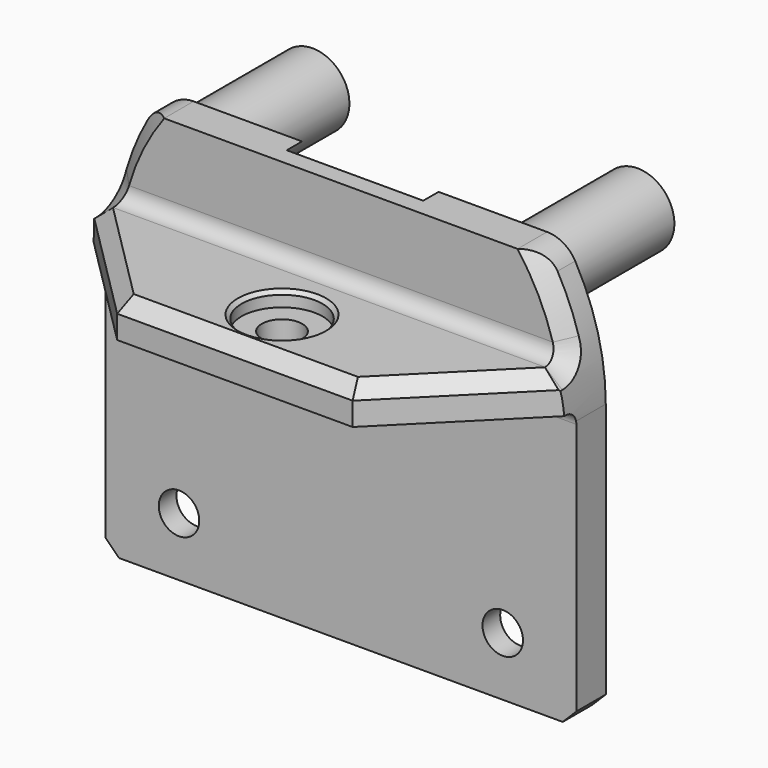
from build123d import *

# Parameters (mm, degrees)
PAD001_DEPTH                  = 32
SKETCH010_R                   = 20.25
SKETCH010_R_2                 = 7.8
POCKET_DEPTH                  = 2.6
SKETCH011_R                   = 2.75
POCKET001_DEPTH               = 23.001
SKETCH014_R                   = 5.5
POCKET004_DEPTH               = 2
SKETCH008_R                   = 5
PAD002_DEPTH                  = 17.8
SKETCH012_R                   = 1.3
POCKET002_DEPTH               = 10
SKETCH013_R                   = 2.75
POCKET003_DEPTH               = 18.001
SKETCH015_R                   = 5.5
POCKET005_DEPTH               = 2
CHAMFER_SIZE                  = 2
CHAMFER001_SIZE               = 1.85
CHAMFER002_SIZE               = 0.5
FILLET_R                      = 4.4
BODY001082169_ROLL_ANGLE      = 90
BODY001082169_PLACEMENT_ANGLE = 180


with BuildPart() as part:
    # Sketch009 → Pad001 (new body, symmetric)
    with BuildSketch(Plane.YZ):
        with BuildLine():
            Line((-36.6, 0), (-36.6, 5))
            Line((-36.6, 5), (18, 5))
            Line((18, 5), (18, 0))
            Line((18, 0), (8.4, 0))
            ThreePointArc((8.4, 0), (6.985786, -0.585786), (6.4, -2))
            Line((6.4, -2), (6.4, -18))
            Line((6.4, -18), (1.4, -18))
            Line((1.4, -18), (1.4, -1.8))
            ThreePointArc((1.4, -1.8), (0.872792, -0.527208), (-0.4, 0))
            Line((-0.4, 0), (-36.6, 0))
        make_face()
    extrude(amount=PAD001_DEPTH, both=True)

    # Sketch010 → Pocket (cut)
    with BuildSketch(Plane.XY.offset(5)):
        Circle(SKETCH010_R)
        Circle(SKETCH010_R_2, mode=Mode.SUBTRACT)
    extrude(amount=-POCKET_DEPTH, mode=Mode.SUBTRACT)

    # Sketch011 → Pocket001 (cut, through all)
    with BuildSketch(Plane.XY.offset(5)):
        with Locations((22, -28.6)):
            Circle(SKETCH011_R)
        with Locations((-22, -28.6)):
            Circle(SKETCH011_R)
        with BuildLine():
            ThreePointArc((-26.457513, 18), (-30.583005, 9.416995), (-32, 0))
            Line((-32, 0), (-33, 0))
            Line((-33, 0), (-33, 19))
            Line((-33, 19), (33, 19))
            Line((33, 19), (33, 0))
            Line((33, 0), (32, 0))
            ThreePointArc((32, 0), (30.583005, 9.416995), (26.457513, 18))
            Line((-26.457513, 18), (26.457513, 18))
        make_face()
    extrude(amount=-POCKET001_DEPTH, mode=Mode.SUBTRACT)

    # Sketch014 → Pocket004 (cut)
    with BuildSketch(Plane.XY.offset(5)):
        with Locations((-22, -28.6)):
            Circle(SKETCH014_R)
        with Locations((22, -28.6)):
            Circle(SKETCH014_R)
    extrude(amount=-POCKET004_DEPTH, mode=Mode.SUBTRACT)

    # Sketch008 → Pad002 (join)
    with BuildSketch(Plane.XY.offset(5)):
        with Locations((-22.083648, 12.75)):
            Circle(SKETCH008_R)
        with Locations((22.083648, 12.75)):
            Circle(SKETCH008_R)
        with Locations((0, -25.5)):
            Circle(SKETCH008_R)
    extrude(amount=PAD002_DEPTH)

    # Sketch012 → Pocket002 (cut)
    with BuildSketch(Plane.XY.offset(22.8)):
        with Locations((-22.083648, 12.75)):
            Circle(SKETCH012_R)
        with Locations((22.083648, 12.75)):
            Circle(SKETCH012_R)
        with Locations((0, -25.5)):
            Circle(SKETCH012_R)
    extrude(amount=-POCKET002_DEPTH, mode=Mode.SUBTRACT)

    # Sketch013 → Pocket003 (cut, through all)
    with BuildSketch(Plane.XZ):
        with Locations((0, -10)):
            Circle(SKETCH013_R)
        Polygon((-32, -2), (-16, -18), (16, -18), (32, -2), (33, -2), (33, -20), (-33, -20), (-33, -2), align=None)
    extrude(amount=-POCKET003_DEPTH, mode=Mode.SUBTRACT)

    # Sketch015 → Pocket005 (cut)
    with BuildSketch(Plane(origin=(0, 6.4, 0), x_dir=(0.999848, 0, 0.017452), z_dir=(0, -1, 0))):
        with Locations((-0.174524, -9.998477)):
            Circle(SKETCH015_R)
    extrude(amount=POCKET005_DEPTH, mode=Mode.SUBTRACT)

    # Chamfer
    chamfer_edges = [part.edges().sort_by_distance(p)[0] for p in [
        (29.066737, 13.383751, 0),
        (31.225598, 6.997288, -0.574378),
        (-29.066737, 13.383751, 0),
        (-31.225598, 6.997288, -0.574378),
    ]]
    chamfer(chamfer_edges, length=CHAMFER_SIZE)

    # Chamfer001
    chamfer001_edges = [part.edges().sort_by_distance(p)[0] for p in [
        (22.676734, 6.4, -11.323266),
        (0, 6.4, -18),
        (-22.676734, 6.4, -11.323266),
        (-32, -36.6, 2.5),
        (32, -36.6, 2.5),
    ]]
    chamfer(chamfer001_edges, length=CHAMFER001_SIZE)

    # Chamfer002
    chamfer002_edges = [part.edges().sort_by_distance(p)[0] for p in [
        (-27.5, -28.6, 5),
        (16.5, -28.6, 5),
        (-7.8, 0, 5),
        (-5.499162, 6.4, -10.095988),
    ]]
    chamfer(chamfer002_edges, length=CHAMFER002_SIZE)

    # Fillet
    fillet_edges = [part.edges().sort_by_distance(p)[0] for p in [
        (-26.457513, 18, 3.5),
        (26.457513, 18, 3.5),
    ]]
    fillet(fillet_edges, radius=FILLET_R)


with BuildPart() as part_1:
    # Body001082169 roll: moved
    add(part.part.rotate(Axis((0, 0, 0), (1, 0, 0)), BODY001082169_ROLL_ANGLE))


with BuildPart() as part_2:
    # Body001082169 placement: moved
    add(part_1.part.rotate(Axis((0, 0, 0), (0, 0, 1)), BODY001082169_PLACEMENT_ANGLE))


solid = part_2.part
